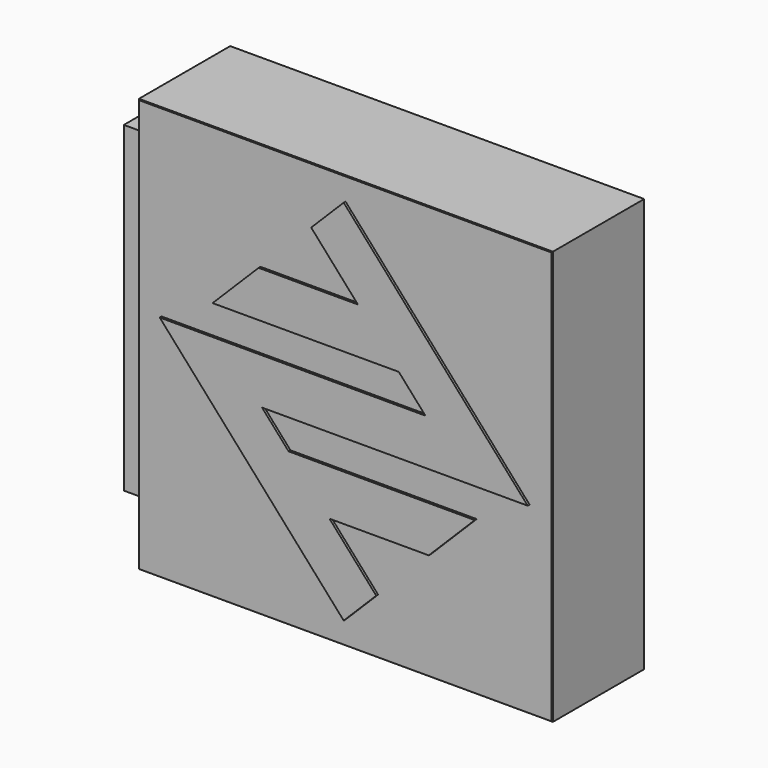
from build123d import *

# Parameters (mm, degrees)
F0_W      = 900
F0_H      = 900
F1_DEPTH  = 125
F3_DEPTH  = 5
F6_W      = 900
F6_H      = 900
F6_W_2    = 896
F6_H_2    = 896
F7_DEPTH  = 255.001
F9_W      = 900
F9_H      = 900
F9_W_2    = 896
F9_H_2    = 896
F10_DEPTH = 248
F11_W     = 140
F11_H     = 700
F12_DEPTH = 80


with BuildPart() as f1:
    # F0 (on Front) → F1 (new body, symmetric)
    with BuildSketch(Plane.XZ):
        Rectangle(F0_W, F0_H)
    extrude(amount=F1_DEPTH, both=True)

    # F6 (on face) → F7 (cut, through all)
    with BuildSketch(Plane.XZ.offset(125)):
        Rectangle(F6_W, F6_H)
        Rectangle(F6_W_2, F6_H_2, mode=Mode.SUBTRACT)
    extrude(amount=-F7_DEPTH, mode=Mode.SUBTRACT)


with BuildPart() as f3:
    # F2 (on face) → F3 (new body)
    with BuildSketch(Plane.XZ.offset(125)):
        Polygon((-400, 50), (0, -400), (70.7106781187, -329.2893218813), (-30.8798302203, -215), (185, -215), (285, -115), (-119.7687191092, -115), (-177.546496887, -50), (400, -50), (0, 400), (-70.7106781187, 329.2893218813), (30.8798302203, 215), (-185, 215), (-285, 115), (119.7687191092, 115), (177.546496887, 50), align=None)
    extrude(amount=F3_DEPTH)


with BuildPart() as f4_1:
    # F4: instance of F3
    add(f3.part.mirror(Plane.XZ))


with BuildPart() as f5_1:
    # F5: instance of F4_1
    add(f4_1.part.mirror(Plane.YZ))


with BuildPart() as f10:
    # F9 (on offset) → F10 (new body)
    with BuildSketch(Plane(origin=(0, 124, 0), x_dir=(-1, 0, 0), z_dir=(0, 1, 0))):
        Rectangle(F9_W, F9_H)
        Rectangle(F9_W_2, F9_H_2, mode=Mode.SUBTRACT)
    extrude(amount=-F10_DEPTH)


with BuildPart() as f12:
    # F11 (on face) → F12 (new body)
    with BuildSketch(Plane(origin=(-450, 0, 0), x_dir=(0, -1, 0), z_dir=(-1, 0, 0))):
        with Locations((-5, 0)):
            Rectangle(F11_W, F11_H)
    extrude(amount=F12_DEPTH)


solid = Compound([f1.part, f3.part, f4_1.part, f5_1.part, f10.part, f12.part])
